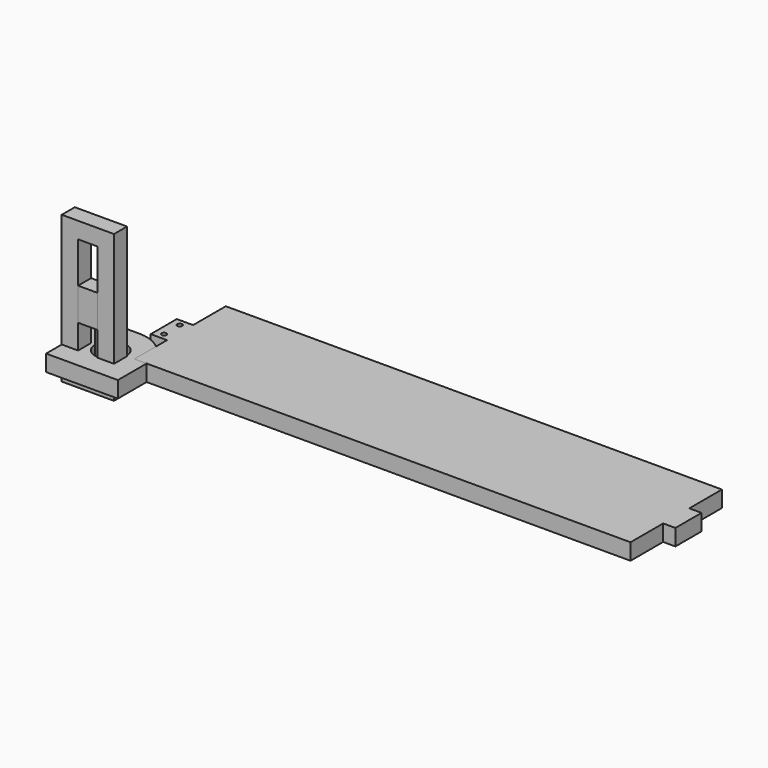
from build123d import *

# Parameters (mm, degrees)
F1_DEPTH = 10
F2_R     = 1.5
F3_DEPTH = 10
F4_R     = 7.5
F4_R_2   = 4
F5_DEPTH = 25
F7_DEPTH = 10
F8_DEPTH = 10


with BuildPart() as f1:
    # F0 (on Top) → F1 (new body)
    with BuildSketch(Plane.XY):
        with BuildLine():
            ThreePointArc((0, -9.5), (-6.717514, -6.717514), (-9.5, 0))
            Line((-9.5, 0), (-22, 0))
            Line((-22, 0), (-22, -22))
            Line((-22, -22), (0, -22))
            Line((0, -22), (0, -9.5))
        make_face()
        with BuildLine():
            ThreePointArc((-9.5, 0), (0, 9.5), (9.5, 0))
            ThreePointArc((9.5, 0), (6.717514, -6.717514), (0, -9.5))
            Line((0, -9.5), (0, -22))
            Line((0, -22), (22, -22))
            Line((22, -22), (22, 0))
            ThreePointArc((22, 0), (15.556349, 15.556349), (0, 22))
            Line((0, 22), (-22, 22))
            Line((-22, 22), (-22, 0))
            Line((-22, 0), (-9.5, 0))
        make_face()
    extrude(amount=F1_DEPTH)


with BuildPart() as f3:
    # F2 (on Top) → F3 (new body)
    with BuildSketch(Plane.XY):
        Polygon((14.5, 25), (14.5, 0), (318.5, 0), (318.5, 25), (326, 25), (326, 45), (318.5, 45), (318.5, 70), (14.5, 70), (14.5, 45), (14.5, 41), (14.5, 29), align=None)
        Polygon((4.5, 25), (14.5, 25), (14.5, 29), (14.5, 41), (14.5, 45), (4.5, 45), align=None)
        with Locations((9.5, 29)):
            Circle(F2_R, mode=Mode.SUBTRACT)
        with Locations((9.5, 41)):
            Circle(F2_R, mode=Mode.SUBTRACT)
    extrude(amount=F3_DEPTH)


with BuildPart() as f5:
    # F4 (on Top) → F5 (new body)
    with BuildSketch(Plane.XY):
        Circle(F4_R)
        Circle(F4_R_2, mode=Mode.SUBTRACT)
    extrude(amount=F5_DEPTH)


with BuildPart() as f7:
    # F6 (on Front) → F7 (new body)
    with BuildSketch(Plane.XZ):
        Polygon((10, -10), (10, 0), (10, 80), (-22, 80), (-22, -10), align=None)
        Polygon((0, 25), (0, 0), (-12, 0), (-12, 25), (-12, 45), (-12, 70), (0, 70), (0, 45), align=None, mode=Mode.SUBTRACT)
        Polygon((-6, 25), (0, 25), (0, 45), (-12, 45), (-12, 25), align=None)
    extrude(amount=F7_DEPTH)


with BuildPart() as f8:
    # F6 (on Front) → F8 (new body)
    with BuildSketch(Plane.XZ):
        Polygon((10, -10), (10, 0), (10, 80), (-22, 80), (-22, -10), align=None)
        Polygon((0, 25), (0, 0), (-12, 0), (-12, 25), (-12, 45), (-12, 70), (0, 70), (0, 45), align=None, mode=Mode.SUBTRACT)
    extrude(amount=F8_DEPTH)


solid = Compound([f1.part, f3.part, f5.part, f7.part, f8.part])
